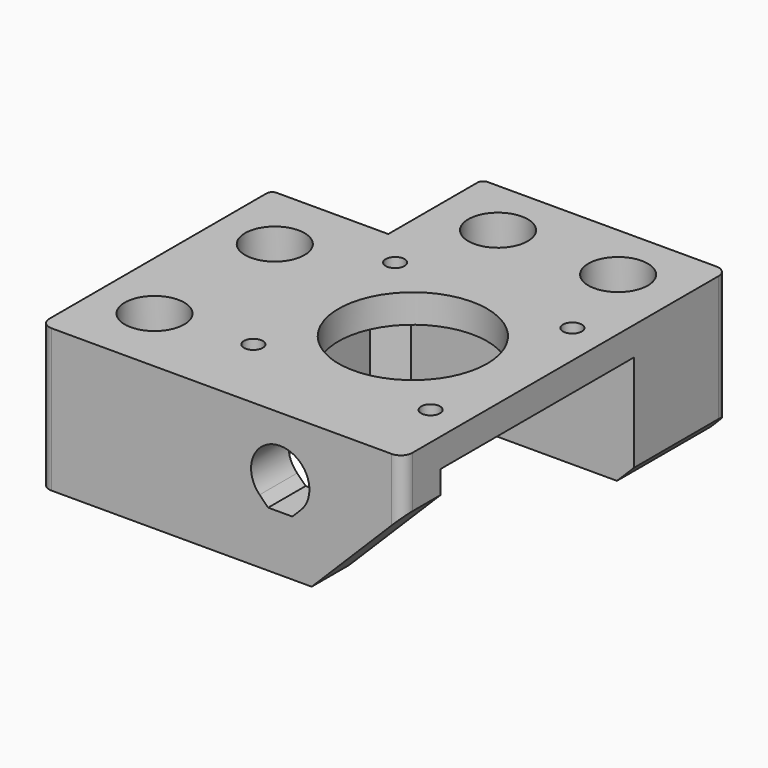
from build123d import *

# Parameters (mm, degrees)
EXTRUDE006_DEPTH           = 10
EXTRUDE006_PLACEMENT_ANGLE = 90
PRISM001_DEPTH             = 0.3
PRISM001_PLACEMENT_ANGLE   = 30
PRISM_DEPTH                = 0.3
SKETCH006_R                = 2.7
EXTRUDE005_DEPTH           = 25
SKETCH001_R                = 5.2
EXTRUDE004_DEPTH           = 6
SKETCH004_R                = 13
SKETCH004_R_2              = 1.65
EXTRUDE003_DEPTH           = 5
BOX009_W                   = 43
BOX009_H                   = 42.3
BOX009_DEPTH               = 20
CHAMFER001_SIZE            = 4
BOX007_W                   = 20.5
BOX007_H                   = 20.5
BOX007_DEPTH               = 25
BOX008_W                   = 63.5
BOX008_H                   = 71
BOX008_DEPTH               = 25
CHAMFER002_1_SIZE          = 16
CHAMFER002_2_SIZE          = 3
FILLET001_1_R              = 2
FILLET001_2_R              = 1
FILLET001_PLACEMENT_ANGLE  = 180


with BuildPart() as obj1:
    # Sketch005 → Extrude006 (new body)
    with BuildSketch(Plane.YZ):
        with BuildLine():
            ThreePointArc((-3.606261, 3.606229), (0, -5.1), (3.606261, 3.606229))
            Line((2.112489, 5.1), (3.606261, 3.606229))
            Line((-2.112489, 5.1), (2.112489, 5.1))
            Line((-3.606261, 3.606229), (-2.112489, 5.1))
        make_face()
    extrude(amount=EXTRUDE006_DEPTH)


with BuildPart() as obj1_1:
    # Extrude006 placement: moved
    add(obj1.part.moved(Location((42, 62, 10.2))).rotate(Axis((42, 62, 10.2), (0, 0, 1)), EXTRUDE006_PLACEMENT_ANGLE))


with BuildPart() as obj2:
    # Prism001 → Prism001 (new body)
    with BuildSketch(Plane.XY):
        Polygon((3.1, 0), (1.55, 2.684679), (-1.55, 2.684679), (-3.1, 0), (-1.55, -2.684679), (1.55, -2.684679), align=None)
    extrude(amount=PRISM001_DEPTH)


with BuildPart() as obj2_1:
    # Prism001 placement: moved
    add(obj2.part.moved(Location((10.25, 32.5, 6.3))).rotate(Axis((10.25, 32.5, 6.3), (0, 0, 1)), PRISM001_PLACEMENT_ANGLE))


with BuildPart() as soporte_circulos:
    # Prism → Prism (new body)
    with BuildSketch(Plane(origin=(10.25, 32.5, 6), x_dir=(1, 0, 0), z_dir=(0, 0, 1))):
        Polygon((5.3, 0), (-2.65, 4.589935), (-2.65, -4.589935), align=None)
    extrude(amount=PRISM_DEPTH)

    # Fusion007: union obj2
    add(obj2_1.part)


with BuildPart() as clone006:
    # Clone006 base: copy of soporte_circulos
    add(soporte_circulos.part)


with BuildPart() as clone006_1:
    # Clone006 placement: moved
    add(clone006.part.moved(Location((0, 26.3, 0))))


with BuildPart() as clone007:
    # Clone007 base: copy of soporte_circulos
    add(soporte_circulos.part)


with BuildPart() as clone007_1:
    # Clone007 placement: moved
    add(clone007.part.moved(Location((21.25, -22.25, 0))))


with BuildPart() as clone005:
    # Clone005 base: copy of Clone007
    add(clone007_1.part)


with BuildPart() as clone005_1:
    # Clone005 placement: moved
    add(clone005.part.moved(Location((21, 0, 0))))


with BuildPart() as huecos_soporte_taladros:
    # Fusion008 base: copy of soporte_circulos
    add(soporte_circulos.part)

    # Fusion008: union Clone006, Clone007, Clone005
    add(clone006_1.part)
    add(clone007_1.part)
    add(clone005_1.part)


with BuildPart() as obj3:
    # Sketch006 → Extrude005 (new body)
    with BuildSketch(Plane.XY):
        with Locations((31.5, 10.25)):
            Circle(SKETCH006_R)
        with Locations((52.5, 10.25)):
            Circle(SKETCH006_R)
        with Locations((10.25, 32.5)):
            Circle(SKETCH006_R)
        with Locations((10.25, 58.8)):
            Circle(SKETCH006_R)
    extrude(amount=EXTRUDE005_DEPTH)


with BuildPart() as fusion009:
    # Sketch001 → Extrude004 (new body)
    with BuildSketch(Plane.XY):
        with Locations((31.5, 10.25)):
            Circle(SKETCH001_R)
        with Locations((52.5, 10.25)):
            Circle(SKETCH001_R)
        with Locations((10.25, 32.5)):
            Circle(SKETCH001_R)
        with Locations((10.25, 58.8)):
            Circle(SKETCH001_R)
    extrude(amount=EXTRUDE004_DEPTH)

    # Fusion006: union obj3
    add(obj3.part)

    # Fusion009: union obj1, huecos_soporte_taladros
    add(obj1_1.part)
    add(huecos_soporte_taladros.part)


with BuildPart() as agujero_motor:
    # Sketch004 (on Face6 of Box009) → Extrude003 (new body)
    with BuildSketch(Plane(origin=(20.5, 20.5, 25), x_dir=(1, 0, 0), z_dir=(0, 0, 1))):
        with Locations((21.5, 21.5)):
            Circle(SKETCH004_R)
        with Locations((6, 37)):
            Circle(SKETCH004_R_2)
        with Locations((37, 37)):
            Circle(SKETCH004_R_2)
        with Locations((37, 6)):
            Circle(SKETCH004_R_2)
        with Locations((6, 6)):
            Circle(SKETCH004_R_2)
    extrude(amount=EXTRUDE003_DEPTH)


with BuildPart() as agujero_motor_1:
    # Extrude003 placement: moved
    add(agujero_motor.part.moved(Location((0, 0, -25))))


with BuildPart() as hueco_motor_total:
    # Box009 → Box009 (new body)
    with BuildSketch(Plane(origin=(20.5, 20.5, 5), x_dir=(1, 0, 0), z_dir=(0, 0, 1))):
        with Locations((21.5, 21.15)):
            Rectangle(BOX009_W, BOX009_H)
    extrude(amount=BOX009_DEPTH)

    # Chamfer001
    chamfer001_edges = [hueco_motor_total.edges().sort_by_distance(p)[0] for p in [
        (20.5, 20.5, 15),
        (20.5, 62.8, 15),
    ]]
    chamfer(chamfer001_edges, length=CHAMFER001_SIZE)

    # Fusion010: union agujero_motor
    add(agujero_motor_1.part)


with BuildPart() as obj4:
    # Box007 → Box007 (new body)
    with BuildSketch(Plane.XY):
        with Locations((10.25, 10.25)):
            Rectangle(BOX007_W, BOX007_H)
    extrude(amount=BOX007_DEPTH)


with BuildPart() as obj5:
    # Box008 → Box008 (new body)
    with BuildSketch(Plane.XY):
        with Locations((31.75, 35.5)):
            Rectangle(BOX008_W, BOX008_H)
    extrude(amount=BOX008_DEPTH)

    # Cut004: cut obj4
    add(obj4.part, mode=Mode.SUBTRACT)

    # Cut006: cut hueco_motor_total
    add(hueco_motor_total.part, mode=Mode.SUBTRACT)

    # Cut005: cut Fusion009
    add(fusion009.part, mode=Mode.SUBTRACT)

    # Chamfer002 1
    chamfer002_1_edges = [obj5.edges().sort_by_distance(p)[0] for p in [
        (63.5, 66.9, 25),
    ]]
    chamfer(chamfer002_1_edges, length=CHAMFER002_1_SIZE)

    # Chamfer002 2
    chamfer002_2_edges = [obj5.edges().sort_by_distance(p)[0] for p in [
        (63.5, 10.25, 25),
    ]]
    chamfer(chamfer002_2_edges, length=CHAMFER002_2_SIZE)

    # Fillet001 1
    fillet001_1_edges = [obj5.edges().sort_by_distance(p)[0] for p in [
        (63.5, 71, 4.5),
        (0, 71, 12.5),
        (63.5, 0, 11),
    ]]
    fillet(fillet001_1_edges, radius=FILLET001_1_R)

    # Fillet001 2
    fillet001_2_edges = [obj5.edges().sort_by_distance(p)[0] for p in [
        (0, 20.5, 12.5),
        (20.5, 0, 12.5),
    ]]
    fillet(fillet001_2_edges, radius=FILLET001_2_R)


with BuildPart() as obj5_1:
    # Fillet001 placement: moved
    add(obj5.part.moved(Location((0, 630, 635))).rotate(Axis((0, 630, 635), (1, 0, 0)), FILLET001_PLACEMENT_ANGLE))


solid = obj5_1.part
